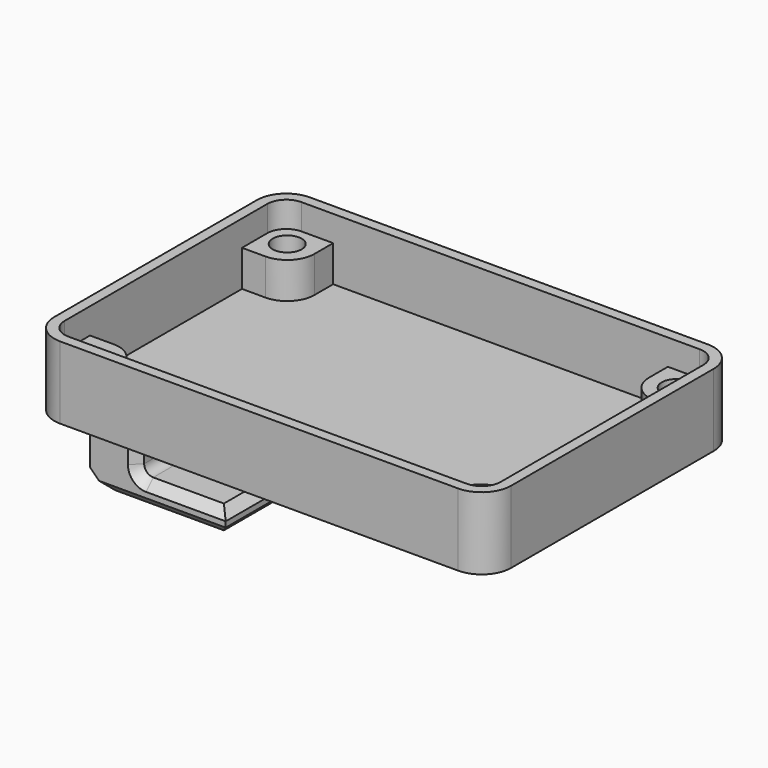
from build123d import *

# Parameters (mm, degrees)
PAD_DEPTH       = 8
THICKNESS_T     = -1.15
SKETCH002_R     = 1.6
PAD008_DEPTH    = 4
SKETCH011_W     = 15
SKETCH011_H     = 20
PAD009_DEPTH    = 10
SKETCH012_W     = 9.970298
SKETCH012_H     = 7.33189
POCKET002_DEPTH = 20
FILLET002_R     = 1
CHAMFER_SIZE    = 1
CHAMFER001_SIZE = 2


with BuildPart() as part:
    # Sketch001 → Pad (new body)
    with BuildSketch(Plane.XY):
        with BuildLine():
            Line((-25.25, 14), (-25.25, -14))
            ThreePointArc((-25.25, -14), (-24.298097, -16.298097), (-22, -17.25))
            Line((-22, -17.25), (22, -17.25))
            ThreePointArc((22, -17.25), (24.298097, -16.298097), (25.25, -14))
            Line((25.25, -14), (25.25, 14))
            ThreePointArc((25.25, 14), (24.298097, 16.298097), (22, 17.25))
            Line((22, 17.25), (-22, 17.25))
            ThreePointArc((-22, 17.25), (-24.298097, 16.298097), (-25.25, 14))
        make_face()
    extrude(amount=-PAD_DEPTH)

    # Thickness
    thickness_openings = [part.faces().sort_by_distance(p)[0] for p in [
        (0, 0, 0),
    ]]
    offset(amount=THICKNESS_T, openings=thickness_openings)

    # Sketch002 (on Face19 of Thickness) → Pad008 (join)
    with BuildSketch(Plane.XY.offset(-6.85)):
        with BuildLine():
            Line((-24.1, 14), (-24.1, 10.5))
            Line((-24.1, 10.5), (-21.5, 10.5))
            ThreePointArc((-21.5, 10.5), (-19.37868, 11.37868), (-18.5, 13.5))
            Line((-18.5, 13.5), (-18.5, 16.1))
            Line((-18.5, 16.1), (-22, 16.1))
            ThreePointArc((-22, 16.1), (-23.484924, 15.484924), (-24.1, 14))
        make_face()
        with Locations((-21.5, 13.5)):
            Circle(SKETCH002_R, mode=Mode.SUBTRACT)
        with BuildLine():
            Line((18.5, 16.1), (18.5, 13.5))
            ThreePointArc((18.5, 13.5), (19.37868, 11.37868), (21.5, 10.5))
            Line((21.5, 10.5), (24.1, 10.5))
            Line((24.1, 10.5), (24.1, 14))
            ThreePointArc((24.1, 14), (23.484924, 15.484924), (22, 16.1))
            Line((22, 16.1), (18.5, 16.1))
        make_face()
        with Locations((21.5, 13.5)):
            Circle(SKETCH002_R, mode=Mode.SUBTRACT)
        with BuildLine():
            Line((-21.5, -10.5), (-24.1, -10.5))
            Line((-24.1, -10.5), (-24.1, -14))
            ThreePointArc((-24.1, -14), (-23.484924, -15.484924), (-22, -16.1))
            Line((-22, -16.1), (-18.5, -16.1))
            Line((-18.5, -16.1), (-18.5, -13.5))
            ThreePointArc((-18.5, -13.5), (-19.37868, -11.37868), (-21.5, -10.5))
        make_face()
        with Locations((-21.5, -13.5)):
            Circle(SKETCH002_R, mode=Mode.SUBTRACT)
        with BuildLine():
            Line((18.5, -13.5), (18.5, -16.1))
            Line((18.5, -16.1), (22, -16.1))
            ThreePointArc((22, -16.1), (23.484924, -15.484924), (24.1, -14))
            Line((24.1, -14), (24.1, -10.5))
            Line((24.1, -10.5), (21.5, -10.5))
            ThreePointArc((21.5, -10.5), (19.37868, -11.37868), (18.5, -13.5))
        make_face()
        with Locations((21.5, -13.5)):
            Circle(SKETCH002_R, mode=Mode.SUBTRACT)
    extrude(amount=PAD008_DEPTH)

    # Sketch011 (on Face5 of Pad008) → Pad009 (join)
    with BuildSketch(Plane(origin=(0, 0, -8), x_dir=(1, 0, 0), z_dir=(0, 0, -1))):
        with Locations((-17, 0)):
            Rectangle(SKETCH011_W, SKETCH011_H)
    extrude(amount=PAD009_DEPTH)

    # Sketch012 (on Face19 of Pad009) → Pocket002 (cut)
    with BuildSketch(Plane(origin=(0, 10, 0), x_dir=(-1, 0, 0), z_dir=(0, 1, 0))):
        with Locations((14.327169, -11.723372)):
            Rectangle(SKETCH012_W, SKETCH012_H)
    extrude(amount=-POCKET002_DEPTH, mode=Mode.SUBTRACT)

    # Fillet002
    fillet002_edges = [part.edges().sort_by_distance(p)[0] for p in [
        (-19.312318, 0, -15.389317),
    ]]
    fillet(fillet002_edges, radius=FILLET002_R)

    # Chamfer
    chamfer_edges = [part.edges().sort_by_distance(p)[0] for p in [
        (-17, 10, -18),
        (-13.906159, 10, -15.389317),
        (-9.5, 0, -18),
        (-9.5, 0, -15.389317),
        (-13.906159, -10, -15.389317),
        (-17, -10, -18),
    ]]
    chamfer(chamfer_edges, length=CHAMFER_SIZE)

    # Chamfer001
    chamfer001_edges = [part.edges().sort_by_distance(p)[0] for p in [
        (-24.5, 0, -18),
    ]]
    chamfer(chamfer001_edges, length=CHAMFER001_SIZE)


solid = part.part
